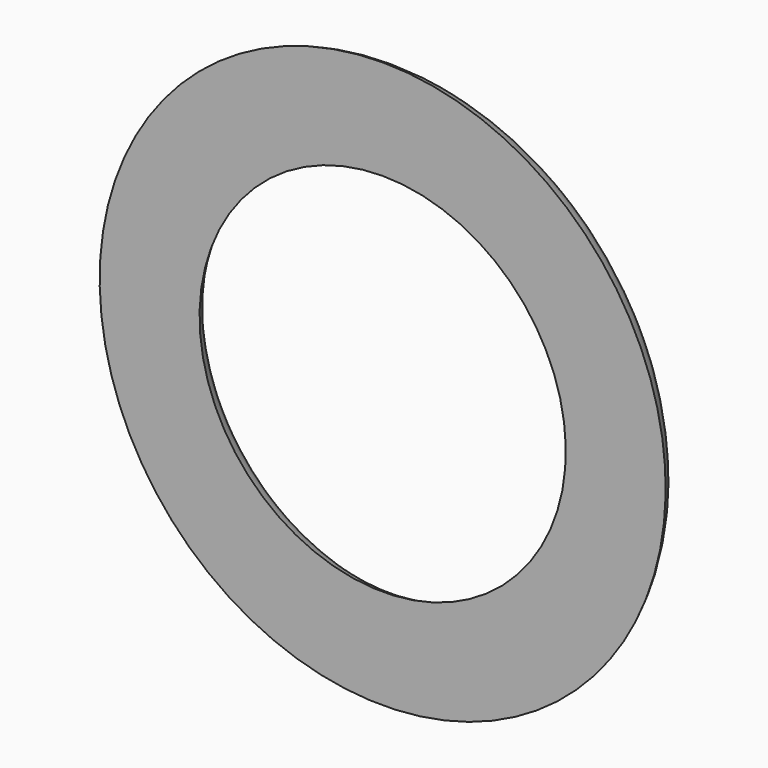
from build123d import *


with BuildPart() as f2:
    # F1 (on Right) → F2 (revolve)
    with BuildSketch(Plane.YZ):
        with BuildLine():
            Line((0, 42.5), (0, 27.499999851))
            ThreePointArc((0, 27.499999851), (5, 34.9999999255), (0, 42.5))
        make_face()
    revolve(axis=Axis((0, 0, 0), (0, -1, 0)))


solid = f2.part
